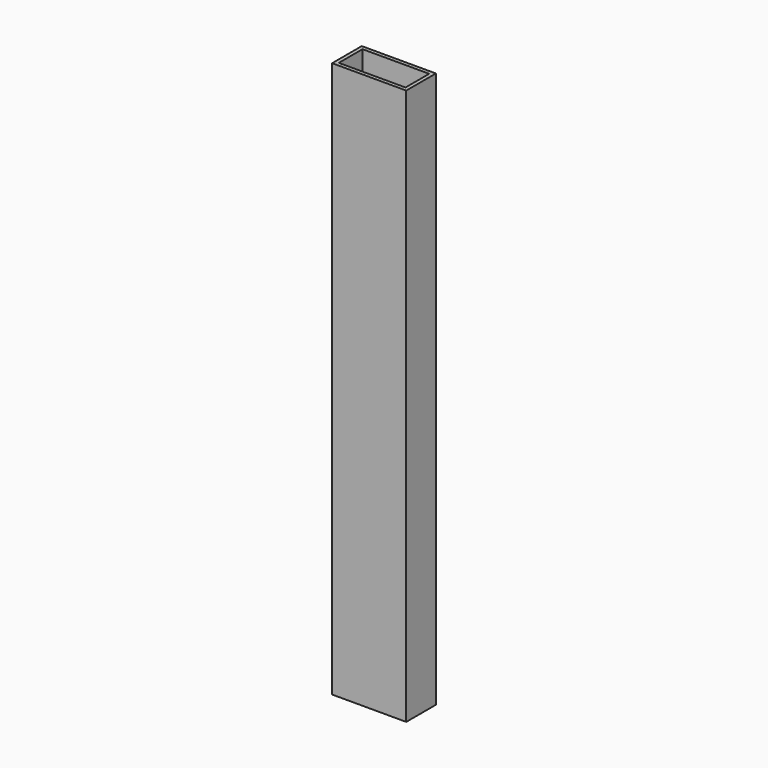
from build123d import *

# Parameters (mm, degrees)
SKETCH_W   = 40
SKETCH_H   = 20
SKETCH_W_2 = 36
SKETCH_H_2 = 16
PAD_DEPTH  = 150


with BuildPart() as part:
    # Sketch → Pad (new body, symmetric)
    with BuildSketch(Plane.XY):
        Rectangle(SKETCH_W, SKETCH_H)
        Rectangle(SKETCH_W_2, SKETCH_H_2, mode=Mode.SUBTRACT)
    extrude(amount=PAD_DEPTH, both=True)


solid = part.part
